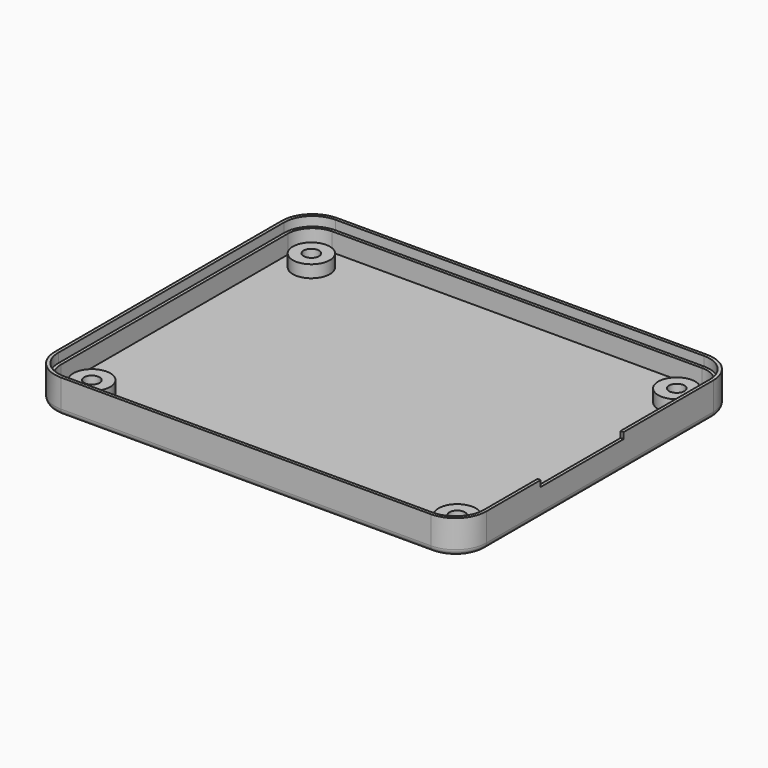
from build123d import *

# Parameters (mm, degrees)
BOX012_W          = 69
BOX012_H          = 55
BOX012_DEPTH      = 1.5
FILLET004_R       = 4.6
CYLINDER005_R     = 1.25
CYLINDER005_DEPTH = 4
CYLINDER007_R     = 1.25
CYLINDER007_DEPTH = 4
CYLINDER009_R     = 1.25
CYLINDER009_DEPTH = 4
CYLINDER003_R     = 1.25
CYLINDER003_DEPTH = 4
BOX015_W          = 24
BOX015_H          = 16.8
BOX015_DEPTH      = 18
CYLINDER006_R     = 3
CYLINDER006_DEPTH = 3
CYLINDER008_R     = 3
CYLINDER008_DEPTH = 3
CYLINDER010_R     = 3
CYLINDER010_DEPTH = 3
BOX_W             = 68
BOX_H             = 54
BOX_DEPTH         = 4.5
FILLET006_R       = 4
THICKNESS_T       = 1
CYLINDER004_R     = 3
CYLINDER004_DEPTH = 3


with BuildPart() as snapbottom001:
    # Box012 → Box012 (new body)
    with BuildSketch(Plane(origin=(-0.5, -0.5, 3), x_dir=(1, 0, 0), z_dir=(0, 0, 1))):
        with Locations((34.5, 27.5)):
            Rectangle(BOX012_W, BOX012_H)
    extrude(amount=BOX012_DEPTH)

    # Fillet004
    fillet004_edges = [snapbottom001.edges().sort_by_distance(p)[0] for p in [
        (-0.5, -0.5, 3.75),
        (-0.5, 54.5, 3.75),
        (68.5, -0.5, 3.75),
        (68.5, 54.5, 3.75),
    ]]
    fillet(fillet004_edges, radius=FILLET004_R)


with BuildPart() as screwcone001:
    # Cone001 → Cone001 (revolve)
    with BuildSketch(Plane(origin=(4.5, 49.15, -2), x_dir=(1, 0, 0), z_dir=(0, -1, 0))):
        Polygon((0, 0), (4, 0), (1.25, 2), (0, 2), align=None)
    revolve(axis=Axis((4.5, 49.15, -2), (0, 0, 1)))


with BuildPart() as screwcone002:
    # Cone002 → Cone002 (revolve)
    with BuildSketch(Plane(origin=(63.75, 49.15, -2), x_dir=(1, 0, 0), z_dir=(0, -1, 0))):
        Polygon((0, 0), (4, 0), (1.25, 2), (0, 2), align=None)
    revolve(axis=Axis((63.75, 49.15, -2), (0, 0, 1)))


with BuildPart() as screwcone003:
    # Cone003 → Cone003 (revolve)
    with BuildSketch(Plane(origin=(63.75, 4.65, -2), x_dir=(1, 0, 0), z_dir=(0, -1, 0))):
        Polygon((0, 0), (4, 0), (1.25, 2), (0, 2), align=None)
    revolve(axis=Axis((63.75, 4.65, -2), (0, 0, 1)))


with BuildPart() as obj1:
    # Cylinder005 → Cylinder005 (new body)
    with BuildSketch(Plane(origin=(4.5, 49.15, -2), x_dir=(1, 0, 0), z_dir=(0, 0, 1))):
        Circle(CYLINDER005_R)
    extrude(amount=CYLINDER005_DEPTH)


with BuildPart() as obj2:
    # Cylinder007 → Cylinder007 (new body)
    with BuildSketch(Plane(origin=(63.75, 4.65, -2), x_dir=(1, 0, 0), z_dir=(0, 0, 1))):
        Circle(CYLINDER007_R)
    extrude(amount=CYLINDER007_DEPTH)


with BuildPart() as obj3:
    # Cylinder009 → Cylinder009 (new body)
    with BuildSketch(Plane(origin=(63.75, 49.15, -2), x_dir=(1, 0, 0), z_dir=(0, 0, 1))):
        Circle(CYLINDER009_R)
    extrude(amount=CYLINDER009_DEPTH)


with BuildPart() as obj4:
    # Cylinder003 → Cylinder003 (new body)
    with BuildSketch(Plane(origin=(4.5, 4.65, -2), x_dir=(1, 0, 0), z_dir=(0, 0, 1))):
        Circle(CYLINDER003_R)
    extrude(amount=CYLINDER003_DEPTH)


with BuildPart() as bottomscrewholes:
    # Cone → Cone (revolve)
    with BuildSketch(Plane(origin=(4.5, 4.65, -2), x_dir=(1, 0, 0), z_dir=(0, -1, 0))):
        Polygon((0, 0), (4, 0), (1.25, 2), (0, 2), align=None)
    revolve(axis=Axis((4.5, 4.65, -2), (0, 0, 1)))

    # Fusion001: union ScrewCone001, ScrewCone002, ScrewCone003, obj1, obj2, obj3, obj4
    add(screwcone001.part)
    add(screwcone002.part)
    add(screwcone003.part)
    add(obj1.part)
    add(obj2.part)
    add(obj3.part)
    add(obj4.part)


with BuildPart() as bottomholes:
    # Box015 → Box015 (new body)
    with BuildSketch(Plane(origin=(47, 15, 3.5), x_dir=(1, 0, 0), z_dir=(0, 0, 1))):
        with Locations((12, 8.4)):
            Rectangle(BOX015_W, BOX015_H)
    extrude(amount=BOX015_DEPTH)

    # Fusion007: union snapbottom001, BottomScrewHoles
    add(snapbottom001.part)
    add(bottomscrewholes.part)


with BuildPart() as obj5:
    # Cylinder006 → Cylinder006 (new body)
    with BuildSketch(Plane(origin=(4.5, 49.15, -1), x_dir=(1, 0, 0), z_dir=(0, 0, 1))):
        Circle(CYLINDER006_R)
    extrude(amount=CYLINDER006_DEPTH)


with BuildPart() as obj6:
    # Cylinder008 → Cylinder008 (new body)
    with BuildSketch(Plane(origin=(63.75, 4.65, -1), x_dir=(1, 0, 0), z_dir=(0, 0, 1))):
        Circle(CYLINDER008_R)
    extrude(amount=CYLINDER008_DEPTH)


with BuildPart() as obj7:
    # Cylinder010 → Cylinder010 (new body)
    with BuildSketch(Plane(origin=(63.75, 49.15, -1), x_dir=(1, 0, 0), z_dir=(0, 0, 1))):
        Circle(CYLINDER010_R)
    extrude(amount=CYLINDER010_DEPTH)


with BuildPart() as thickness:
    # Box → Box (new body)
    with BuildSketch(Plane.XY):
        with Locations((34, 27)):
            Rectangle(BOX_W, BOX_H)
    extrude(amount=BOX_DEPTH)

    # Fillet006
    fillet006_edges = [thickness.edges().sort_by_distance(p)[0] for p in [
        (0, 0, 2.25),
        (0, 54, 2.25),
        (68, 0, 2.25),
        (68, 54, 2.25),
    ]]
    fillet(fillet006_edges, radius=FILLET006_R)

    # Thickness
    thickness_openings = [thickness.faces().sort_by_distance(p)[0] for p in [
        (34, 27, 4.5),
    ]]
    offset(amount=THICKNESS_T, openings=thickness_openings)


with BuildPart() as bottom:
    # Cylinder004 → Cylinder004 (new body)
    with BuildSketch(Plane(origin=(4.5, 4.65, -1), x_dir=(1, 0, 0), z_dir=(0, 0, 1))):
        Circle(CYLINDER004_R)
    extrude(amount=CYLINDER004_DEPTH)

    # Fusion006: union obj5, obj6, obj7, Thickness
    add(obj5.part)
    add(obj6.part)
    add(obj7.part)
    add(thickness.part)

    # Cut003: cut BottomHoles
    add(bottomholes.part, mode=Mode.SUBTRACT)


solid = bottom.part
